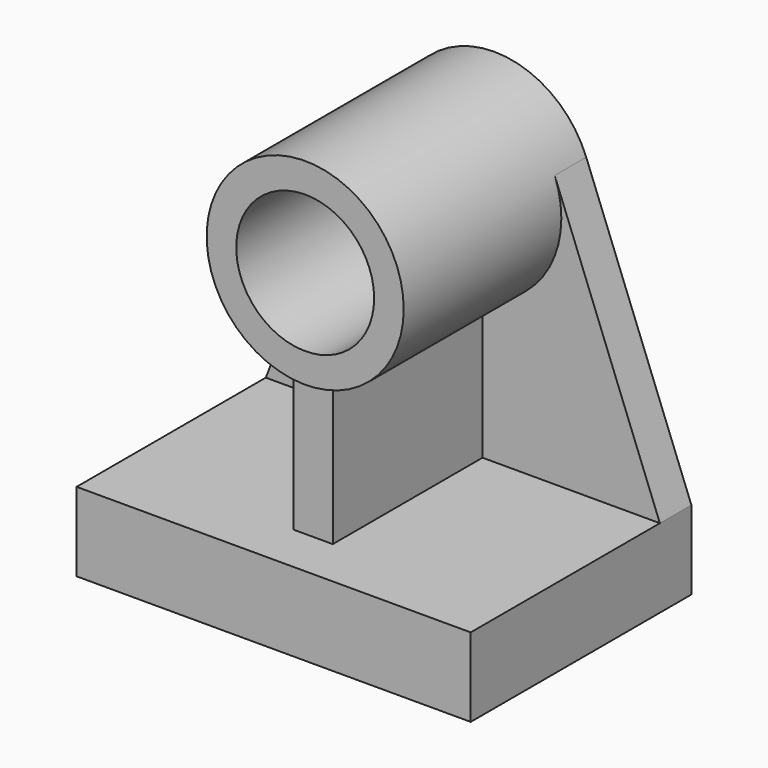
from build123d import *

# Parameters (mm, degrees)
F0_R     = 44.45
F1_DEPTH = 25.4
F2_R     = 63.5
F2_R_2   = 44.45
F3_DEPTH = 127
F4_W     = 254
F4_H     = 50.8
F5_DEPTH = 152.4
F7_DEPTH = 120.65
F8_R     = 44.45
F9_DEPTH = 152.401


with BuildPart() as f1:
    # F0 (on Front) → F1 (new body)
    with BuildSketch(Plane.XZ):
        with BuildLine():
            Line((0, 50.8), (0, 0))
            Line((0, 0), (254, 0))
            Line((254, 0), (254, 50.8))
            Line((254, 50.8), (186.2277468166, 226.0981223472))
            ThreePointArc((186.2277468166, 226.0981223472), (127, 266.7), (67.7722531834, 226.0981223472))
            Line((67.7722531834, 226.0981223472), (0, 50.8))
        make_face()
        with Locations((127, 203.2)):
            Circle(F0_R, mode=Mode.SUBTRACT)
    extrude(amount=F1_DEPTH)

    # F2 (on face) → F3 (join)
    with BuildSketch(Plane.XZ.offset(25.4)):
        with Locations((127, 203.2)):
            Circle(F2_R)
        with Locations((127, 203.2)):
            Circle(F2_R_2, mode=Mode.SUBTRACT)
    extrude(amount=F3_DEPTH)

    # F4 (on face) → F5 (join)
    with BuildSketch(Plane.XZ.offset(25.4)):
        with Locations((127, 25.4)):
            Rectangle(F4_W, F4_H)
    extrude(amount=F5_DEPTH)

    # F6 (on face) → F7 (join)
    with BuildSketch(Plane.XZ.offset(25.4)):
        with BuildLine():
            ThreePointArc((139.7, 140.9829605333), (127, 139.7), (114.3, 140.9829605333))
            Line((114.3, 140.9829605333), (114.3, 50.8))
            Line((114.3, 50.8), (139.7, 50.8))
            Line((139.7, 50.8), (139.7, 140.9829605333))
        make_face()
    extrude(amount=F7_DEPTH)

    # F8 (on face) → F9 (cut, through all)
    with BuildSketch(Plane.XZ.offset(152.4)):
        with Locations((127, 203.2)):
            Circle(F8_R)
    extrude(amount=-F9_DEPTH, mode=Mode.SUBTRACT)


solid = f1.part
